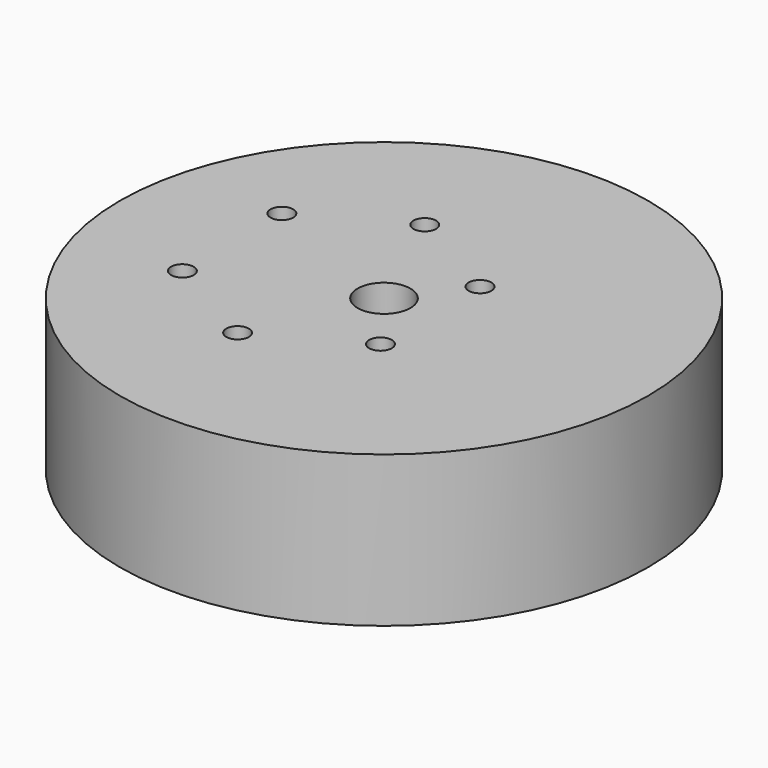
from build123d import *

# Parameters (mm, degrees)
F0_R     = 35
F0_R_2   = 19
F0_R_3   = 1.5
F0_R_4   = 6.5
F0_R_5   = 3.5
F1_DEPTH = 20
F2_DEPTH = 7
F3_DEPTH = 13.75


with BuildPart() as f1:
    # F0 (on Top) → F1 (new body)
    with BuildSketch(Plane.XY):
        Circle(F0_R)
        with Locations((-7, 0)):
            Circle(F0_R_2, mode=Mode.SUBTRACT)
        with Locations((-7, 0)):
            Circle(F0_R_2)
        with Locations((-20.1270902899, -8.2419354839)):
            Circle(F0_R_3, mode=Mode.SUBTRACT)
        with Locations((-7, -15.5)):
            Circle(F0_R_3, mode=Mode.SUBTRACT)
        with Locations((6.1270902899, -8.2419354839)):
            Circle(F0_R_3, mode=Mode.SUBTRACT)
        with Locations((-20.1270902899, 8.2419354839)):
            Circle(F0_R_3, mode=Mode.SUBTRACT)
        with Locations((-7, 15.5)):
            Circle(F0_R_3, mode=Mode.SUBTRACT)
        Circle(F0_R_4, mode=Mode.SUBTRACT)
        with Locations((6.1270902899, 8.2419354839)):
            Circle(F0_R_3, mode=Mode.SUBTRACT)
        Circle(F0_R_4)
        Circle(F0_R_5, mode=Mode.SUBTRACT)
    extrude(amount=F1_DEPTH)

    # F0 (on Top) → F2 (cut)
    with BuildSketch(Plane.XY):
        with Locations((-7, 0)):
            Circle(F0_R_2)
        with Locations((-20.1270902899, -8.2419354839)):
            Circle(F0_R_3, mode=Mode.SUBTRACT)
        with Locations((-7, -15.5)):
            Circle(F0_R_3, mode=Mode.SUBTRACT)
        with Locations((6.1270902899, -8.2419354839)):
            Circle(F0_R_3, mode=Mode.SUBTRACT)
        with Locations((-20.1270902899, 8.2419354839)):
            Circle(F0_R_3, mode=Mode.SUBTRACT)
        with Locations((-7, 15.5)):
            Circle(F0_R_3, mode=Mode.SUBTRACT)
        Circle(F0_R_4, mode=Mode.SUBTRACT)
        with Locations((6.1270902899, 8.2419354839)):
            Circle(F0_R_3, mode=Mode.SUBTRACT)
    extrude(amount=F2_DEPTH, mode=Mode.SUBTRACT)

    # F3 (cut): a face of the model
    f3_faces = [f1.faces().sort_by_distance(p)[0] for p in [
        (-6.3161522369, 0, 0),
    ]]
    extrude(f3_faces, amount=-F3_DEPTH, mode=Mode.SUBTRACT)


solid = f1.part
